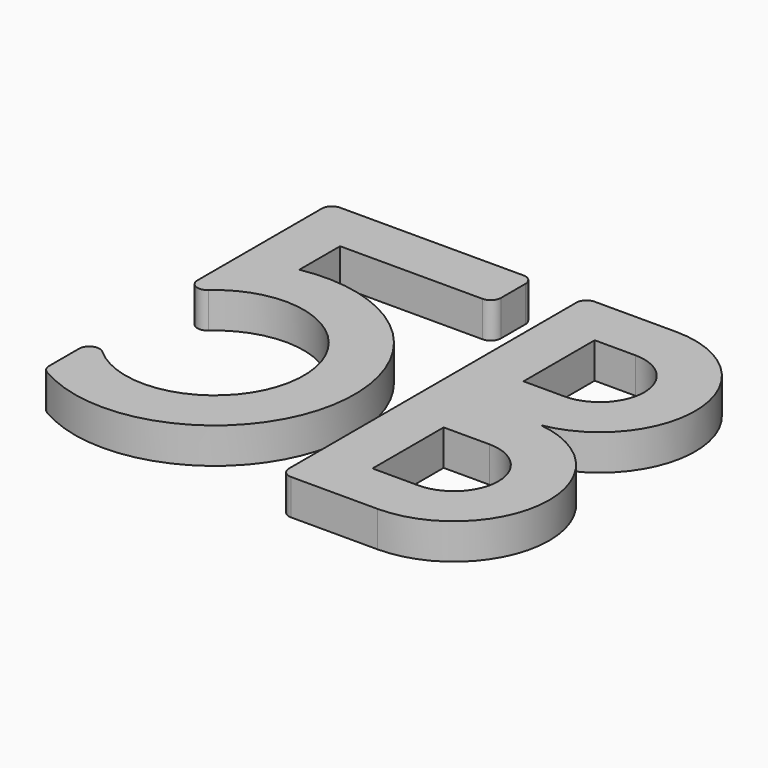
from build123d import *

# Parameters (mm, degrees)
F1_DEPTH = 7
F2_R     = 2


with BuildPart() as f1:
    # F0 (on Top) → F1 (new body)
    with BuildSketch(Plane.XY):
        with BuildLine():
            Line((40, 0), (0, 0))
            Line((0, 0), (0, -38.027756))
            ThreePointArc((0, -38.027756), (32.5, -47.041635), (0, -56.055513))
            Line((0, -56.055513), (0, -70.090496))
            ThreePointArc((0, -70.090496), (41.967841, -52.425458), (10, -20))
            Line((10, -20), (10, -10))
            Line((10, -10), (40, -10))
            Line((40, -10), (40, 0))
        make_face()
        with BuildLine():
            Line((68, 0), (50, 0))
            Line((50, 0), (50, -74.541067))
            Line((50, -74.541067), (69, -74.541067))
            ThreePointArc((69, -74.541067), (87.703552, -56.901395), (71.188173, -37.198017))
            ThreePointArc((71.188173, -37.198017), (86.667197, -17.135704), (68, 0))
        make_face()
        with BuildLine():
            Line((60, -64.541067), (60, -47.069797))
            Line((60, -47.069797), (69, -47.069797))
            ThreePointArc((69, -47.069797), (77.735635, -55.805432), (69, -64.541067))
            Line((69, -64.541067), (60, -64.541067))
        make_face(mode=Mode.SUBTRACT)
        with BuildLine():
            Line((60, -27.471269), (60, -10))
            Line((60, -10), (68, -10))
            ThreePointArc((68, -10), (76.735635, -18.735635), (68, -27.471269))
            Line((68, -27.471269), (60, -27.471269))
        make_face(mode=Mode.SUBTRACT)
    extrude(amount=F1_DEPTH)

    # F2
    f2_edges = [f1.edges().sort_by_distance(p)[0] for p in [
        (0, -70.090496, 3.5),
        (0, -56.055513, 3.5),
        (0, -38.027756, 3.5),
        (0, 0, 3.5),
        (40, 0, 3.5),
        (40, -10, 3.5),
        (50, -74.541067, 3.5),
        (50, 0, 3.5),
    ]]
    fillet(f2_edges, radius=F2_R)


solid = f1.part
